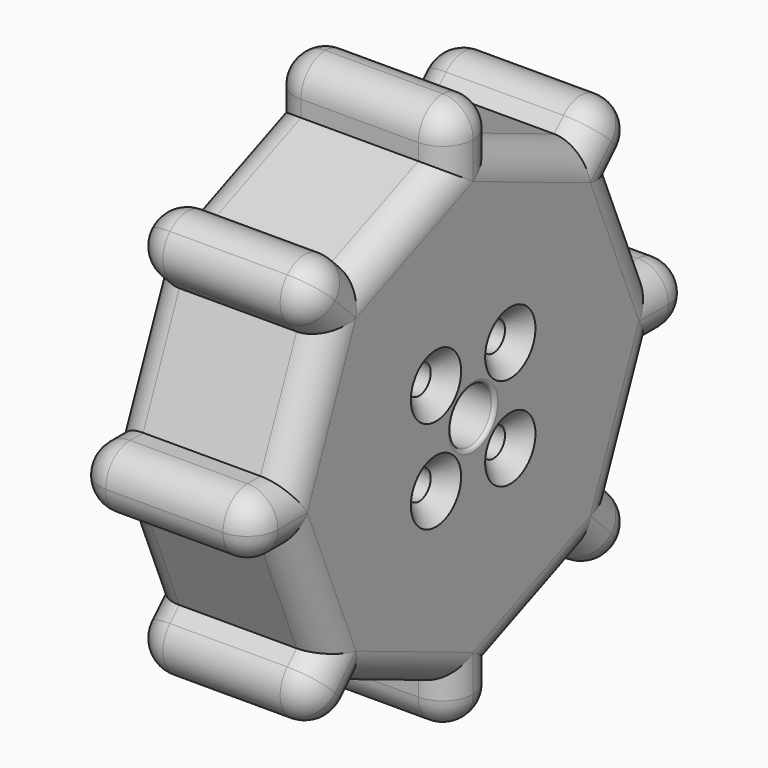
from build123d import *

# Parameters (mm, degrees)
PAD002_DEPTH    = 19
FILLET005_R     = 3.249
SKETCH006_R     = 1.55
SKETCH006_R_2   = 2.9
POCKET002_DEPTH = 19.001
SKETCH005_R     = 11
POCKET003_DEPTH = 1.5
CHAMFER_SIZE    = 1.8
FILLET006_R     = 0.4


with BuildPart() as part:
    # Sketch004 → Pad002 (new body)
    with BuildSketch(Plane.YZ):
        Polygon((-24.263456, 3.25), (-29.263456, 3.25), (-29.263456, -3.25), (-24.263456, -3.25), (-19.454951, -14.858757), (-22.990485, -18.394291), (-18.394291, -22.990485), (-14.858757, -19.454951), (-3.25, -24.263456), (-3.25, -29.263456), (3.25, -29.263456), (3.25, -24.263456), (14.858757, -19.454951), (18.394291, -22.990485), (22.990485, -18.394291), (19.454951, -14.858757), (24.263456, -3.25), (29.263456, -3.25), (29.263456, 3.25), (24.263456, 3.25), (19.454951, 14.858757), (22.990485, 18.394291), (18.394291, 22.990485), (14.858757, 19.454951), (3.25, 24.263456), (3.25, 29.263456), (-3.25, 29.263456), (-3.25, 24.263456), (-14.858757, 19.454951), (-18.394291, 22.990485), (-22.990485, 18.394291), (-19.454951, 14.858757), align=None)
    extrude(amount=PAD002_DEPTH)

    # Fillet005
    fillet005_edges = [part.edges().sort_by_distance(p)[0] for p in [
        (19, -16.626524, 21.222718),
        (19, -20.692388, 20.692388),
        (19, -21.222718, 16.626524),
        (19, -21.859204, 9.054379),
        (19, -26.763456, 3.25),
        (19, -29.263456, 0),
        (19, -26.763456, -3.25),
        (19, -21.859204, -9.054379),
        (19, -21.222718, -16.626524),
        (19, -20.692388, -20.692388),
        (19, -16.626524, -21.222718),
        (19, -9.054379, -21.859204),
        (19, -3.25, -26.763456),
        (19, 0, -29.263456),
        (19, 3.25, -26.763456),
        (19, 9.054379, -21.859204),
        (19, 16.626524, -21.222718),
        (19, 20.692388, -20.692388),
        (19, 21.222718, -16.626524),
        (19, 21.859204, -9.054379),
        (19, 26.763456, -3.25),
        (19, 29.263456, 0),
        (19, 26.763456, 3.25),
        (19, 21.859204, 9.054379),
        (19, 21.222718, 16.626524),
        (19, 20.692388, 20.692388),
        (19, 16.626524, 21.222718),
        (19, 9.054379, 21.859204),
        (19, 3.25, 26.763456),
        (19, 0, 29.263456),
        (19, -3.25, 26.763456),
        (19, -9.054379, 21.859204),
        (0, -16.626524, 21.222718),
        (0, -20.692388, 20.692388),
        (0, -21.222718, 16.626524),
        (0, -21.859204, 9.054379),
        (0, -26.763456, 3.25),
        (0, -29.263456, 0),
        (0, -26.763456, -3.25),
        (0, -21.859204, -9.054379),
        (0, -21.222718, -16.626524),
        (0, -20.692388, -20.692388),
        (0, -16.626524, -21.222718),
        (0, -9.054379, -21.859204),
        (0, -3.25, -26.763456),
        (0, 0, -29.263456),
        (0, 3.25, -26.763456),
        (0, 9.054379, -21.859204),
        (0, 16.626524, -21.222718),
        (0, 20.692388, -20.692388),
        (0, 21.222718, -16.626524),
        (0, 21.859204, -9.054379),
        (0, 26.763456, -3.25),
        (0, 29.263456, 0),
        (0, 26.763456, 3.25),
        (0, 21.859204, 9.054379),
        (0, 21.222718, 16.626524),
        (0, 20.692388, 20.692388),
        (0, 16.626524, 21.222718),
        (0, 9.054379, 21.859204),
        (0, 3.25, 26.763456),
        (0, 0, 29.263456),
        (0, -3.25, 26.763456),
        (0, -9.054379, 21.859204),
        (9.5, -29.263456, 3.25),
        (9.5, -29.263456, -3.25),
        (9.5, -18.394291, 22.990485),
        (9.5, -22.990485, 18.394291),
        (9.5, -3.25, 29.263456),
        (9.5, 3.25, 29.263456),
        (9.5, -22.990485, -18.394291),
        (9.5, -18.394291, -22.990485),
        (9.5, 18.394291, 22.990485),
        (9.5, 22.990485, 18.394291),
        (9.5, 29.263456, -3.25),
        (9.5, 29.263456, 3.25),
        (9.5, 18.394291, -22.990485),
        (9.5, 22.990485, -18.394291),
        (9.5, -3.25, -29.263456),
        (9.5, 3.25, -29.263456),
    ]]
    fillet(fillet005_edges, radius=FILLET005_R)

    # Sketch006 (on Face9 of Fillet005) → Pocket002 (cut, through all)
    with BuildSketch(Plane(origin=(0, 0, 0), x_dir=(0, 1, 0), z_dir=(-1, 0, 0))):
        with Locations((-4.949747, 4.949747)):
            Circle(SKETCH006_R)
        with Locations((4.949747, 4.949747)):
            Circle(SKETCH006_R)
        with Locations((-4.949747, -4.949747)):
            Circle(SKETCH006_R)
        with Locations((4.949747, -4.949747)):
            Circle(SKETCH006_R)
        Circle(SKETCH006_R_2)
    extrude(amount=-POCKET002_DEPTH, mode=Mode.SUBTRACT)

    # Sketch005 (on Face9 of Fillet005) → Pocket003 (cut)
    with BuildSketch(Plane(origin=(0, 0, 0), x_dir=(0, 1, 0), z_dir=(-1, 0, 0))):
        Circle(SKETCH005_R)
    extrude(amount=-POCKET003_DEPTH, mode=Mode.SUBTRACT)

    # Chamfer
    chamfer_edges = [part.edges().sort_by_distance(p)[0] for p in [
        (19, 3.399747, -4.949747),
        (19, -6.499747, -4.949747),
        (19, 3.399747, 4.949747),
        (19, -6.499747, 4.949747),
    ]]
    chamfer(chamfer_edges, length=CHAMFER_SIZE)

    # Fillet006
    fillet006_edges = [part.edges().sort_by_distance(p)[0] for p in [
        (0, -11, 0),
        (1.5, -6.499747, 4.949747),
        (1.5, 3.399747, 4.949747),
        (1.5, -2.9, 0),
        (1.5, 3.399747, -4.949747),
        (1.5, -6.499747, -4.949747),
        (19, -2.9, 0),
    ]]
    fillet(fillet006_edges, radius=FILLET006_R)


solid = part.part
